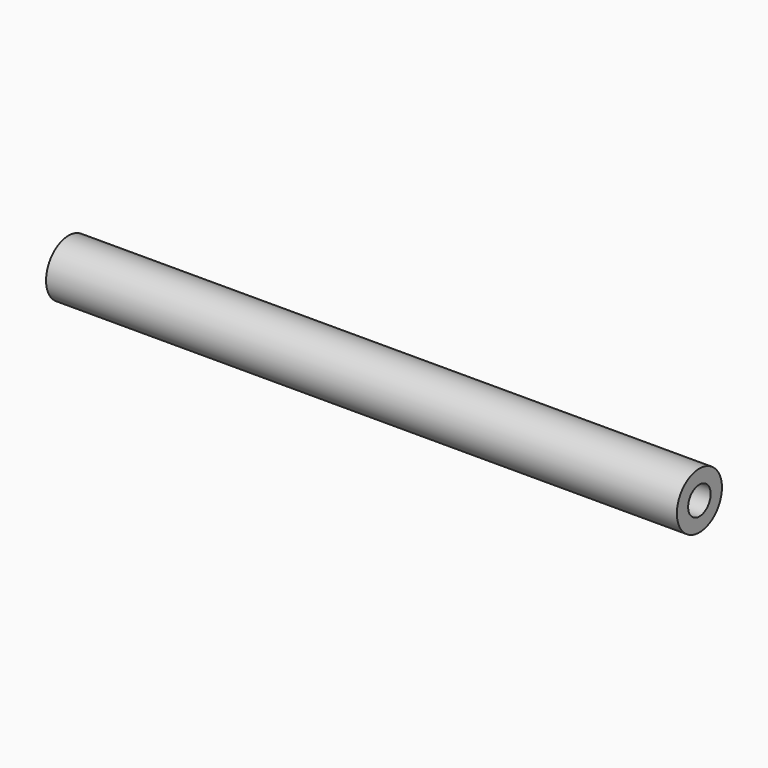
from build123d import *

# Parameters (mm, degrees)
F0_R     = 25
F1_DEPTH = 560
F2_R     = 12.5
F3_DEPTH = 25.5
F4_R     = 12.5
F5_DEPTH = 25.5


with BuildPart() as f1:
    # F0 (on Right) → F1 (new body)
    with BuildSketch(Plane.YZ):
        Circle(F0_R)
    extrude(amount=F1_DEPTH)

    # F2 (on face) → F3 (cut)
    with BuildSketch(Plane(origin=(0, 0, 0), x_dir=(0, -1, 0), z_dir=(-1, 0, 0))):
        Circle(F2_R)
    extrude(amount=-F3_DEPTH, mode=Mode.SUBTRACT)

    # F4 (on face) → F5 (cut)
    with BuildSketch(Plane.YZ.offset(560)):
        Circle(F4_R)
    extrude(amount=-F5_DEPTH, mode=Mode.SUBTRACT)


solid = f1.part
